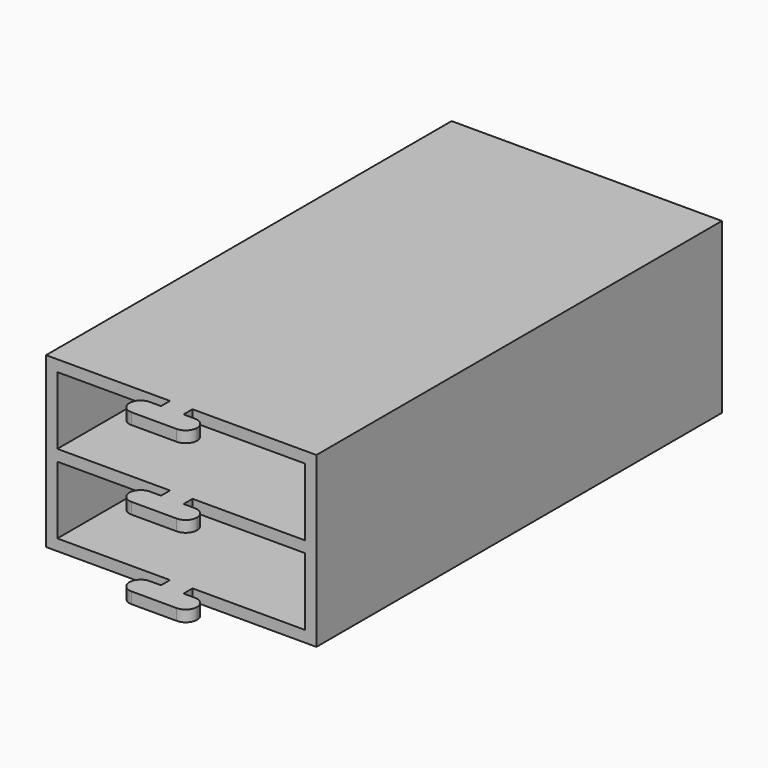
from build123d import *

# Parameters (mm, degrees)
F0_W     = 76.2
F0_H     = 47.625
F1_DEPTH = 3.175
F2_W     = 76.2
F2_H     = 47.625
F2_W_2   = 69.85
F2_H_2   = 1.5875
F3_DEPTH = 139.7
F4_W     = 3.175
F4_H     = 3.175
F5_DEPTH = 47.625
F6_DEPTH = 2540


with BuildPart() as f1:
    # F0 (on Front) → F1 (new body)
    with BuildSketch(Plane.XZ):
        with Locations((38.1, 23.8125)):
            Rectangle(F0_W, F0_H)
    extrude(amount=F1_DEPTH)

    # F2 (on face) → F3 (join)
    with BuildSketch(Plane.XZ.offset(3.175)):
        with Locations((38.1, 23.8125)):
            Rectangle(F2_W, F2_H)
        Polygon((73.025, 3.175), (3.175, 3.175), (3.175, 22.225), (3.175, 23.8125), (3.175, 25.4), (3.175, 32.016575672), (3.175, 44.45), (73.025, 44.45), (73.025, 32.016575672), (73.025, 25.4), (73.025, 23.8125), (73.025, 22.225), align=None, mode=Mode.SUBTRACT)
        with Locations((38.1, 23.01875)):
            Rectangle(F2_W_2, F2_H_2)
        with Locations((38.1, 24.60625)):
            Rectangle(F2_W_2, F2_H_2)
    extrude(amount=F3_DEPTH)

    # F4 (on face) → F5 (join, through all)
    with BuildSketch(Plane.XY.offset(47.625)):
        with BuildLine():
            Line((41.275, -149.225), (38.1, -149.225))
            Line((38.1, -149.225), (34.925, -149.225))
            ThreePointArc((34.925, -149.225), (33.9950640303, -151.4700640303), (31.75, -152.4))
            Line((31.75, -152.4), (44.45, -152.4))
            ThreePointArc((44.45, -152.4), (42.2049359697, -151.4700640303), (41.275, -149.225))
        make_face()
        with BuildLine():
            ThreePointArc((31.75, -152.4), (33.9950640303, -151.4700640303), (34.925, -149.225))
            Line((34.925, -149.225), (31.75, -149.225))
            Line((31.75, -149.225), (31.75, -152.4))
        make_face()
        with BuildLine():
            Line((31.75, -149.225), (34.925, -149.225))
            ThreePointArc((34.925, -149.225), (33.9950640303, -146.9799359697), (31.75, -146.05))
            ThreePointArc((31.75, -146.05), (28.575, -149.225), (31.75, -152.4))
            Line((31.75, -152.4), (31.75, -149.225))
        make_face()
        with BuildLine():
            Line((38.1, -149.225), (38.1, -146.05))
            Line((38.1, -146.05), (34.925, -146.05))
            Line((34.925, -146.05), (31.75, -146.05))
            ThreePointArc((31.75, -146.05), (33.9950640303, -146.9799359697), (34.925, -149.225))
            Line((34.925, -149.225), (38.1, -149.225))
        make_face()
        with BuildLine():
            Line((41.275, -146.05), (38.1, -146.05))
            Line((38.1, -146.05), (38.1, -149.225))
            Line((38.1, -149.225), (41.275, -149.225))
            ThreePointArc((41.275, -149.225), (42.2049359697, -146.9799359697), (44.45, -146.05))
            Line((44.45, -146.05), (41.275, -146.05))
        make_face()
        with BuildLine():
            ThreePointArc((47.625, -149.225), (46.6950640303, -146.9799359697), (44.45, -146.05))
            Line((44.45, -146.05), (44.45, -149.225))
            Line((44.45, -149.225), (44.45, -152.4))
            ThreePointArc((44.45, -152.4), (46.6950640303, -151.4700640303), (47.625, -149.225))
        make_face()
        with BuildLine():
            ThreePointArc((44.45, -146.05), (42.2049359697, -146.9799359697), (41.275, -149.225))
            Line((41.275, -149.225), (44.45, -149.225))
            Line((44.45, -149.225), (44.45, -146.05))
        make_face()
        with BuildLine():
            Line((44.45, -149.225), (41.275, -149.225))
            ThreePointArc((41.275, -149.225), (42.2049359697, -151.4700640303), (44.45, -152.4))
            Line((44.45, -152.4), (44.45, -149.225))
        make_face()
        with Locations((39.6875, -144.4625)):
            Rectangle(F4_W, F4_H)
        with Locations((36.5125, -144.4625)):
            Rectangle(F4_W, F4_H)
    extrude(amount=-F5_DEPTH)

    # F6 (cut): faces of the model
    f6_faces = [f1.faces().sort_by_distance(p)[0] for p in [
        (38.1, -3.175, 12.7),
        (38.1, -3.175, 34.925),
    ]]
    extrude(f6_faces, amount=F6_DEPTH, mode=Mode.SUBTRACT)


solid = f1.part
